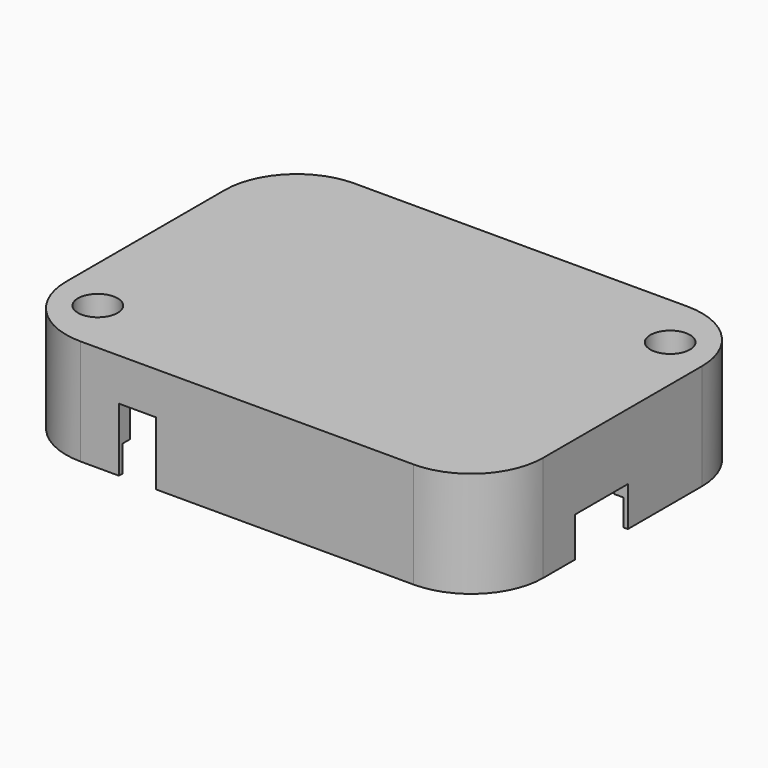
from build123d import *

# Parameters (mm, degrees)
PAD002_DEPTH    = 30
PAD003_DEPTH    = 10
POCKET011_DEPTH = 10
POCKET012_DEPTH = 28
PAD004_DEPTH    = 28
SKETCH018_R     = 2.4
POCKET013_DEPTH = 30.001
SKETCH019_R     = 7.5
POCKET014_DEPTH = 12
SKETCH020_W     = 14
SKETCH020_H     = 40
POCKET015_DEPTH = 5.201
SKETCH021_W     = 25
SKETCH021_H     = 30
POCKET016_DEPTH = 10


with BuildPart() as part:
    # Sketch013 (on Face25 of Binder) → Pad002 (new body)
    with BuildSketch(Plane.XY.offset(15)):
        with BuildLine():
            Line((-64.5, 2.2), (61.5, 2.2))
            ThreePointArc((88.7, -25), (80.733304, -5.766696), (61.5, 2.2))
            Line((88.7, -25), (88.7, -100))
            ThreePointArc((61.5, -127.2), (80.733304, -119.233304), (88.7, -100))
            Line((-64.5, -127.2), (61.5, -127.2))
            ThreePointArc((-91.7, -100), (-83.733304, -119.233304), (-64.5, -127.2))
            Line((-91.7, -25), (-91.7, -100))
            ThreePointArc((-64.5, 2.2), (-83.733304, -5.766696), (-91.7, -25))
        make_face()
    extrude(amount=PAD002_DEPTH)

    # Sketch014 (on Face9 of Pad002) → Pad003 (join)
    with BuildSketch(Plane(origin=(0, 0, 15), x_dir=(1, 0, 0), z_dir=(0, 0, -1))):
        with BuildLine():
            Line((-64.5, 127.2), (61.5, 127.2))
            ThreePointArc((88.7, 100), (80.733304, 119.233304), (61.5, 127.2))
            Line((88.7, 25), (88.7, 100))
            ThreePointArc((61.5, -2.2), (80.733304, 5.766696), (88.7, 25))
            Line((-64.5, -2.2), (61.5, -2.2))
            ThreePointArc((-91.7, 25), (-83.733304, 5.766696), (-64.5, -2.2))
            Line((-91.7, 100), (-91.7, 25))
            ThreePointArc((-64.5, 127.2), (-83.733304, 119.233304), (-91.7, 100))
        make_face()
    extrude(amount=PAD003_DEPTH)

    # Sketch015 (on Face10 of Pad003) → Pocket011 (cut)
    with BuildSketch(Plane(origin=(0, 0, 5), x_dir=(1, 0, 0), z_dir=(0, 0, -1))):
        with BuildLine():
            Line((-64.5, 125.6), (61.5, 125.6))
            ThreePointArc((87.1, 100), (79.601934, 118.101934), (61.5, 125.6))
            Line((87.1, 100), (87.1, 25))
            ThreePointArc((61.5, -0.6), (79.601934, 6.898066), (87.1, 25))
            Line((-64.5, -0.6), (61.5, -0.6))
            ThreePointArc((-90.1, 25), (-82.601934, 6.898066), (-64.5, -0.6))
            Line((-90.1, 100), (-90.1, 25))
            ThreePointArc((-64.5, 125.6), (-82.601934, 118.101934), (-90.1, 100))
        make_face()
    extrude(amount=-POCKET011_DEPTH, mode=Mode.SUBTRACT)

    # Sketch016 (on Face27 of Pocket011) → Pocket012 (cut)
    with BuildSketch(Plane(origin=(0, 0, 15), x_dir=(1, 0, 0), z_dir=(0, 0, -1))):
        with BuildLine():
            Line((-64.5, 122), (61.5, 122))
            ThreePointArc((83.5, 100), (77.056349, 115.556349), (61.5, 122))
            Line((83.5, 100), (83.5, 25))
            ThreePointArc((61.5, 3), (77.056349, 9.443651), (83.5, 25))
            Line((-64.5, 3), (61.5, 3))
            ThreePointArc((-86.5, 25), (-80.056349, 9.443651), (-64.5, 3))
            Line((-86.5, 100), (-86.5, 25))
            ThreePointArc((-64.5, 122), (-80.056349, 115.556349), (-86.5, 100))
        make_face()
    extrude(amount=-POCKET012_DEPTH, mode=Mode.SUBTRACT)

    # Sketch017 (on Face36 of Pocket012) → Pad004 (join)
    with BuildSketch(Plane(origin=(0, 0, 43), x_dir=(1, 0, 0), z_dir=(0, 0, -1))):
        with BuildLine():
            ThreePointArc((-64.5, 122), (-80.056349, 115.556349), (-86.5, 100))
            Line((-86.5, 100), (-86.5, 89.146438))
            ThreePointArc((-77.204935, 96.428453), (-83.625311, 95.050377), (-86.5, 89.146438))
            ThreePointArc((-77.204935, 96.428453), (-66.894122, 100.029214), (-66.027044, 110.916203))
            ThreePointArc((-59.438691, 122), (-65.885724, 118.3322), (-66.027044, 110.916203))
            Line((-64.5, 122), (-59.438691, 122))
        make_face()
        with BuildLine():
            ThreePointArc((61.5, 3), (77.056349, 9.443651), (83.5, 25))
            Line((83.5, 35.853562), (83.5, 25))
            ThreePointArc((74.204935, 28.571547), (80.625311, 29.949623), (83.5, 35.853562))
            ThreePointArc((74.204935, 28.571547), (63.894122, 24.970786), (63.027044, 14.083797))
            ThreePointArc((56.438691, 3), (62.885724, 6.6678), (63.027044, 14.083797))
            Line((56.438691, 3), (61.5, 3))
        make_face()
    extrude(amount=PAD004_DEPTH)

    # Sketch018 (on Face28 of Pad004) → Pocket013 (cut, through all)
    with BuildSketch(Plane(origin=(0, 0, 15), x_dir=(1, 0, 0), z_dir=(0, 0, -1))):
        with Locations((-74.811515, 106.137806)):
            Circle(SKETCH018_R)
        with Locations((71.811515, 18.862194)):
            Circle(SKETCH018_R)
    extrude(amount=-POCKET013_DEPTH, mode=Mode.SUBTRACT)

    # Sketch019 (on Face5 of Pocket013) → Pocket014 (cut)
    with BuildSketch(Plane.XY.offset(45)):
        with Locations((71.811515, -18.862194)):
            Circle(SKETCH019_R)
        with Locations((-74.811515, -106.137806)):
            Circle(SKETCH019_R)
    extrude(amount=-POCKET014_DEPTH, mode=Mode.SUBTRACT)

    # Sketch020 (on Face35 of Pocket014) → Pocket015 (cut, through all)
    with BuildSketch(Plane(origin=(0, -122, 0), x_dir=(-1, 0, 0), z_dir=(0, 1, 0))):
        with Locations((43, 9)):
            Rectangle(SKETCH020_W, SKETCH020_H)
    extrude(amount=-POCKET015_DEPTH, mode=Mode.SUBTRACT)

    # Sketch021 (on Face11 of Pocket015) → Pocket016 (cut)
    with BuildSketch(Plane.YZ.offset(88.7)):
        with Locations((-72.5, 5)):
            Rectangle(SKETCH021_W, SKETCH021_H)
    extrude(amount=-POCKET016_DEPTH, mode=Mode.SUBTRACT)


solid = part.part
